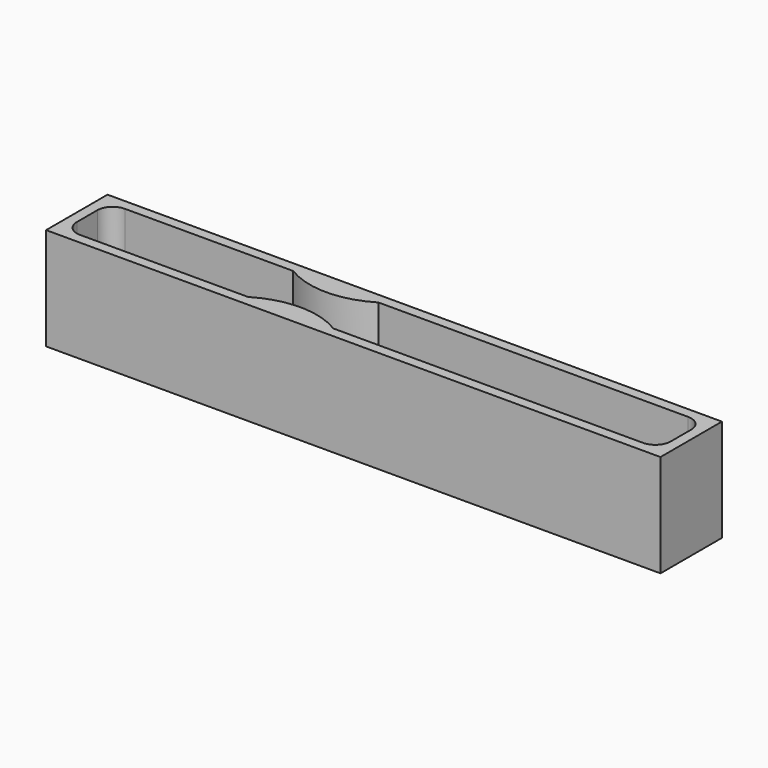
from build123d import *

# Parameters (mm, degrees)
F0_W     = 120
F0_H     = 15
F1_DEPTH = 20
F3_DEPTH = 10
F4_R     = 1
F5_DEPTH = 5


with BuildPart() as f1:
    # F0 (on Top) → F1 (new body)
    with BuildSketch(Plane.XY):
        with Locations((47.004177, -6.222026)):
            Rectangle(F0_W, F0_H)
    extrude(amount=F1_DEPTH)

    # F2 (on face) → F3 (cut)
    with BuildSketch(Plane.XY.offset(20)):
        with BuildLine():
            Line((24.868954, -0.722026), (-7.995823, -0.722026))
            ThreePointArc((-7.995823, -0.722026), (-10.117143, -1.600706), (-10.995823, -3.722026))
            Line((-10.995823, -3.722026), (-10.995823, -6.222026))
            Line((-10.995823, -6.222026), (105.004177, -6.222026))
            Line((105.004177, -6.222026), (105.004177, -3.722026))
            ThreePointArc((105.004177, -3.722026), (104.125498, -1.600706), (102.004177, -0.722026))
            Line((102.004177, -0.722026), (41.503951, -0.722026))
            ThreePointArc((41.503951, -0.722026), (33.186452, -3.06816), (24.868954, -0.722026))
        make_face()
        with BuildLine():
            Line((105.004177, -6.222026), (-10.995823, -6.222026))
            Line((-10.995823, -6.222026), (-10.995823, -8.722026))
            ThreePointArc((-10.995823, -8.722026), (-10.117143, -10.843347), (-7.995823, -11.722026))
            Line((-7.995823, -11.722026), (24.868954, -11.722026))
            ThreePointArc((24.868954, -11.722026), (33.186452, -9.375893), (41.503951, -11.722026))
            Line((41.503951, -11.722026), (102.004177, -11.722026))
            ThreePointArc((102.004177, -11.722026), (104.125498, -10.843347), (105.004177, -8.722026))
            Line((105.004177, -8.722026), (105.004177, -6.222026))
        make_face()
    extrude(amount=-F3_DEPTH, mode=Mode.SUBTRACT)

    # F4 (on face) → F5 (cut)
    with BuildSketch(Plane.XY.offset(10)):
        with Locations((-6.801731, -3.722026)):
            Circle(F4_R)
        with Locations((-0.801731, -3.722026)):
            Circle(F4_R)
        with Locations((5.198269, -3.722026)):
            Circle(F4_R)
        with Locations((11.198269, -3.722026)):
            Circle(F4_R)
        with Locations((11.198269, -8.722026)):
            Circle(F4_R)
        with Locations((5.198269, -8.722026)):
            Circle(F4_R)
        with Locations((-0.801731, -8.722026)):
            Circle(F4_R)
        with Locations((-6.801731, -8.722026)):
            Circle(F4_R)
    extrude(amount=-F5_DEPTH, mode=Mode.SUBTRACT)


solid = f1.part
